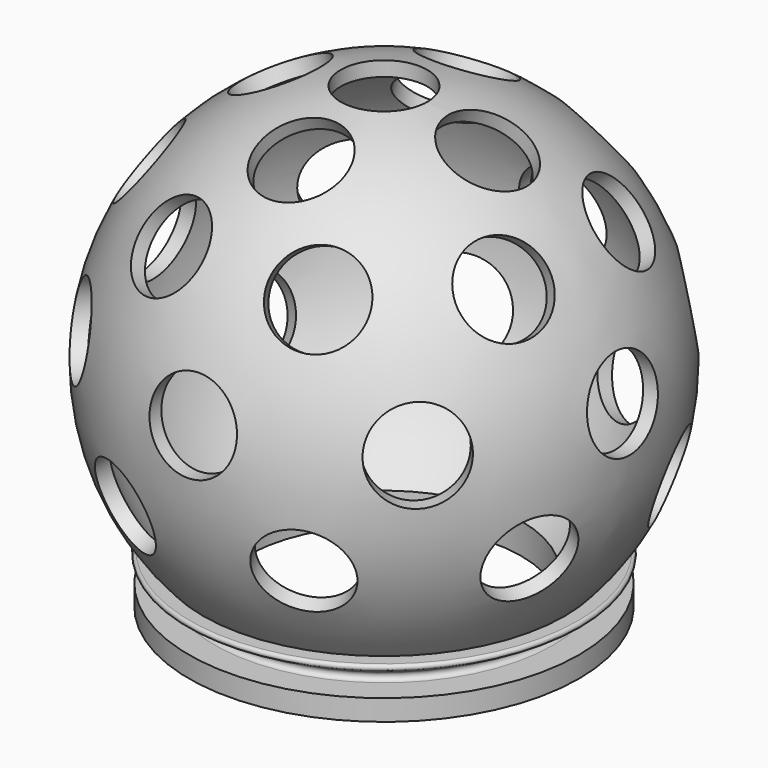
from build123d import *

# Parameters (mm, degrees)
SKETCH001_R           = 3
POCKET_DEPTH          = 7
POLARPATTERN_COUNT    = 8
CYLINDER_R            = 3
CYLINDER_DEPTH        = 21
POLARPATTERN001_COUNT = 8
CYLINDER001_R         = 3
CYLINDER001_DEPTH     = 25
POLARPATTERN002_COUNT = 4
CYLINDER002_R         = 3
CYLINDER002_DEPTH     = 37
POLARPATTERN003_COUNT = 8
CYLINDER003_R         = 3
CYLINDER003_DEPTH     = 46


with BuildPart() as part:
    # Sketch → Revolution (revolve)
    with BuildSketch(Plane.XZ):
        with BuildLine():
            ThreePointArc((9.5, 2.1256068104), (15.198524452, 20.0004854248), (0, 31))
            Line((0, 32), (0, 31))
            ThreePointArc((12.5199840255, 3.5), (15.5643824163, 21.8373971656), (0, 32))
            Line((12.5199840255, 3.5), (13.4199840255, 3.5))
            ThreePointArc((13.5186296898, 3.1260200215), (13.6133696451, 3.351009824), (13.4199840255, 3.5))
            Line((11.5520315036, 2.0109699678), (13.5186296898, 3.1260200215))
            ThreePointArc((11.5520315036, 2.0109699678), (11.4099215707, 1.6734852639), (11.7, 1.45))
            Line((11.7, 1.45), (13.5, 1.45))
            Line((13.5, 0), (13.5, 1.45))
            Line((9.5, 0), (13.5, 0))
            Line((9.5, 2.1256068104), (9.5, 0))
        make_face()
    revolve(axis=Axis((0, 0, 0), (0, 0, 1)))

    # Sketch001 (on DatumPlane) → Pocket (cut)
    with BuildSketch(Plane(origin=(19, 0, 17.75), x_dir=(0, 0, -1), z_dir=(1, 0, 0))):
        Circle(SKETCH001_R)
    pocket = extrude(amount=-POCKET_DEPTH, mode=Mode.SUBTRACT)

    # PolarPattern: Pocket ×8 about axis
    polarpattern_axis = Axis((0, 0, 0), (0, 0, 1))
    for i in range(1, POLARPATTERN_COUNT):
        add(pocket.rotate(polarpattern_axis, i * 360 / POLARPATTERN_COUNT), mode=Mode.SUBTRACT)

    # Cylinder → Cylinder (cut)
    with BuildSketch(Plane(origin=(0, 0, 17.7), x_dir=(0.3746065934, 0.9271838546, 0), z_dir=(0.802964772, -0.3244188263, 0.5))):
        Circle(CYLINDER_R)
    cylinder = extrude(amount=CYLINDER_DEPTH, mode=Mode.SUBTRACT)

    # PolarPattern001: Cylinder ×8 about axis
    polarpattern001_axis = Axis((0, 0, 0), (0, 0, 1))
    for i in range(1, POLARPATTERN001_COUNT):
        add(cylinder.rotate(polarpattern001_axis, i * 360 / POLARPATTERN001_COUNT), mode=Mode.SUBTRACT)

    # Cylinder001 → Cylinder001 (cut)
    with BuildSketch(Plane(origin=(0, 0, 17.7), x_dir=(1, 0, 0), z_dir=(0, -0.5, 0.8660254038))):
        Circle(CYLINDER001_R)
    cylinder001 = extrude(amount=CYLINDER001_DEPTH, mode=Mode.SUBTRACT)

    # PolarPattern002: Cylinder001 ×4 about axis
    polarpattern002_axis = Axis((0, 0, 0), (0, 0, 1))
    for i in range(1, POLARPATTERN002_COUNT):
        add(cylinder001.rotate(polarpattern002_axis, i * 360 / POLARPATTERN002_COUNT), mode=Mode.SUBTRACT)

    # Cylinder002 → Cylinder002 (cut)
    with BuildSketch(Plane(origin=(0, 0, 17.7), x_dir=(0.9271838546, -0.3746065934, 0), z_dir=(-0.3395088727, -0.8403139474, -0.4226182617))):
        Circle(CYLINDER002_R)
    cylinder002 = extrude(amount=CYLINDER002_DEPTH, mode=Mode.SUBTRACT)

    # PolarPattern003: Cylinder002 ×8 about axis
    polarpattern003_axis = Axis((0, 0, 0), (0, 0, 1))
    for i in range(1, POLARPATTERN003_COUNT):
        add(cylinder002.rotate(polarpattern003_axis, i * 360 / POLARPATTERN003_COUNT), mode=Mode.SUBTRACT)

    # Cylinder003 → Cylinder003 (cut)
    with BuildSketch(Plane.XY):
        Circle(CYLINDER003_R)
    extrude(amount=CYLINDER003_DEPTH, mode=Mode.SUBTRACT)


solid = part.part
